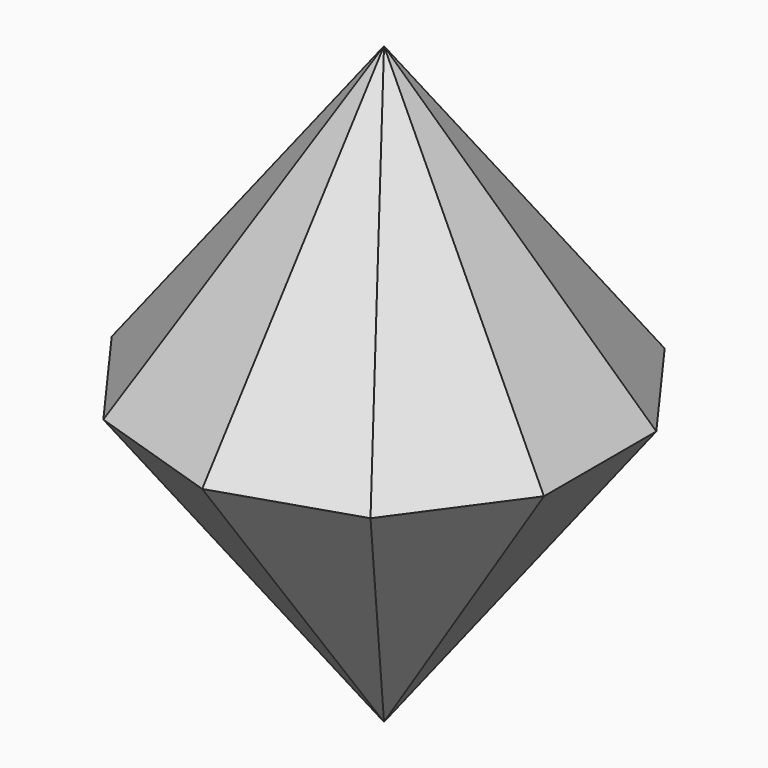
from build123d import *

# Parameters (mm, degrees)
F1_DEPTH  = 30
F7_DEPTH  = 67.083039
F8_DEPTH  = 67.083039
F9_DEPTH  = 62.189471
F10_DEPTH = 58.648451
F11_DEPTH = 61.353549


with BuildPart() as f1:
    # F0 (on Top) → F1 (new body, symmetric)
    with BuildSketch(Plane.XY):
        Polygon((21.796276, 30), (-21.796276, 30), (-35.267115, -11.45898), (0, -37.082039), (35.267115, -11.45898), align=None)
    extrude(amount=F1_DEPTH, both=True)

    # F2 (on face) → F7 (intersect, through all)
    with BuildSketch(Plane(origin=(0, 30, 0), x_dir=(-1, 0, 0), z_dir=(0, 1, 0))):
        Polygon((21.796276, 0), (0, 30), (-21.796276, 0), (0, -30), align=None)
    extrude(amount=-F7_DEPTH, mode=Mode.INTERSECT)

    # F3 (on face) → F8 (intersect, through all)
    with BuildSketch(Plane(origin=(-17.633558, -24.27051, 0), x_dir=(0.809017, -0.587785, 0), z_dir=(-0.587785, -0.809017, 0))):
        Polygon((0, 30), (-21.796276, 0), (0, -30), (21.796276, 0), align=None)
    extrude(amount=-F8_DEPTH, mode=Mode.INTERSECT)

    # F4 (on face) → F9 (intersect, through all)
    with BuildSketch(Plane(origin=(-28.531695, 9.27051, 0), x_dir=(-0.309017, -0.951057, 0), z_dir=(-0.951057, 0.309017, 0))):
        Polygon((0, -30), (21.796276, 0), (0, 30), (-21.796276, 0), align=None)
    extrude(amount=-F9_DEPTH, mode=Mode.INTERSECT)

    # F5 (on face) → F10 (intersect, through all)
    with BuildSketch(Plane(origin=(28.531695, 9.27051, 0), x_dir=(-0.309017, 0.951057, 0), z_dir=(0.951057, 0.309017, 0))):
        Polygon((0, -30), (21.796276, 0), (0, 30), (-21.796276, 0), align=None)
    extrude(amount=-F10_DEPTH, mode=Mode.INTERSECT)

    # F6 (on face) → F11 (intersect, through all)
    with BuildSketch(Plane(origin=(17.633558, -24.27051, 0), x_dir=(0.809017, 0.587785, 0), z_dir=(0.587785, -0.809017, 0))):
        Polygon((0, -30), (21.796276, 0), (0, 30), (-21.796276, 0), align=None)
    extrude(amount=-F11_DEPTH, mode=Mode.INTERSECT)


solid = f1.part
